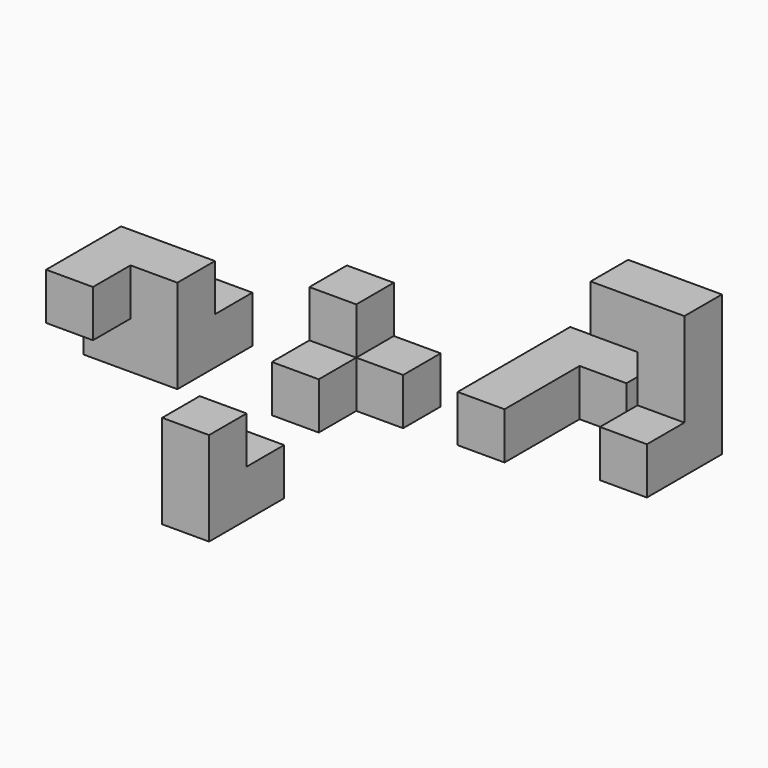
from build123d import *

# Parameters (mm, degrees)
F1_DEPTH  = 12.7
F2_W      = 12.7
F2_H      = 12.7
F3_DEPTH  = 12.7
F5_DEPTH  = 12.7
F6_W      = 12.7
F6_H      = 12.7
F7_DEPTH  = 12.7
F8_W      = 25.4
F8_H      = 25.4
F9_DEPTH  = 12.7
F10_W     = 12.7
F10_H     = 12.7
F11_DEPTH = 12.7
F12_W     = 12.7
F12_H     = 12.7
F13_DEPTH = 12.7
F15_DEPTH = 12.7
F17_DEPTH = 12.7


with BuildPart() as f1:
    # F0 (on Top) → F1 (new body)
    with BuildSketch(Plane.XY):
        Polygon((-25.4, 25.4), (-25.4, 0), (-12.7, 0), (-12.7, 12.7), (0, 12.7), (0, 25.4), align=None)
    extrude(amount=F1_DEPTH)

    # F2 (on face) → F3 (join)
    with BuildSketch(Plane.XY.offset(12.7)):
        with Locations((-19.05, 19.05)):
            Rectangle(F2_W, F2_H)
    extrude(amount=F3_DEPTH)


with BuildPart() as f5:
    # F4 (on Front) → F5 (new body)
    with BuildSketch(Plane.XZ):
        Polygon((96.486876, 68.442659), (83.786876, 68.442659), (71.086876, 68.442659), (71.086876, 55.742659), (83.786876, 55.742659), (83.786876, 30.342659), (96.486876, 30.342659), align=None)
    extrude(amount=F5_DEPTH)

    # F6 (on face) → F7 (join)
    with BuildSketch(Plane.XZ.offset(12.7)):
        with Locations((90.136876, 36.692659)):
            Rectangle(F6_W, F6_H)
    extrude(amount=F7_DEPTH)


with BuildPart() as f9:
    # F8 (on Front) → F9 (new body)
    with BuildSketch(Plane.XZ):
        with Locations((-53.525445, 19.055466)):
            Rectangle(F8_W, F8_H)
    extrude(amount=F9_DEPTH)

    # F10 (on face) → F11 (join)
    with BuildSketch(Plane.XZ.offset(12.7)):
        with Locations((-59.875445, 25.405466)):
            Rectangle(F10_W, F10_H)
    extrude(amount=F11_DEPTH)

    # F12 (on face) → F13 (join)
    with BuildSketch(Plane(origin=(0, 0, 0), x_dir=(-1, 0, 0), z_dir=(0, 1, 0))):
        with Locations((47.175445, 12.705466)):
            Rectangle(F12_W, F12_H)
    extrude(amount=F13_DEPTH)


with BuildPart() as f15:
    # F14 (on Top) → F15 (new body)
    with BuildSketch(Plane.XY):
        Polygon((13.846967, 51.935214), (13.846967, 13.835214), (26.546967, 13.835214), (26.546967, 39.235214), (39.246967, 39.235214), (39.246967, 51.935214), align=None)
    extrude(amount=F15_DEPTH)


with BuildPart() as f17:
    # F16 (on Right) → F17 (new body)
    with BuildSketch(Plane.YZ):
        Polygon((-56.177915, 35.658392), (-68.877915, 35.658392), (-68.877915, 10.258392), (-43.477915, 10.258392), (-43.477915, 22.958392), (-56.177915, 22.958392), align=None)
    extrude(amount=F17_DEPTH)


solid = Compound([f1.part, f5.part, f9.part, f15.part, f17.part])
